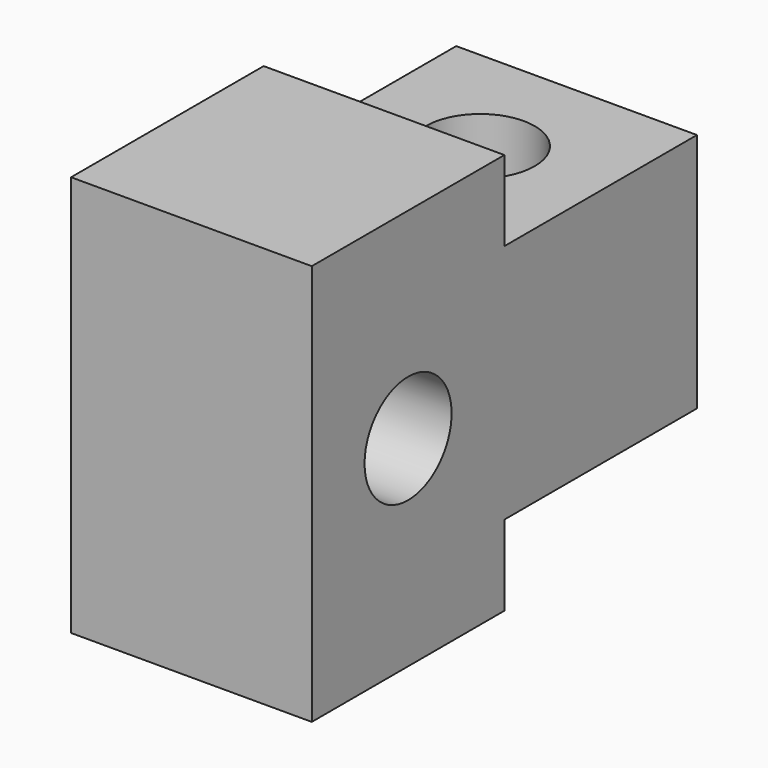
from build123d import *

# Parameters (mm, degrees)
F0_W     = 9.525
F0_H     = 19.05
F0_R     = 2.15265
F1_DEPTH = 15.875
F2_W     = 9.525
F2_H     = 3.175
F3_DEPTH = 9.525
F4_R     = 2.15265
F5_DEPTH = 9.525


with BuildPart() as f1:
    # F0 (on Top) → F1 (new body)
    with BuildSketch(Plane.XY):
        with Locations((4.7625, 9.525)):
            Rectangle(F0_W, F0_H)
        with Locations((4.7625, 14.2875)):
            Circle(F0_R, mode=Mode.SUBTRACT)
    extrude(amount=F1_DEPTH)

    # F2 (on face) → F3 (cut)
    with BuildSketch(Plane(origin=(0, 19.05, 0), x_dir=(-1, 0, 0), z_dir=(0, 1, 0))):
        with Locations((-4.7625, 1.5875)):
            Rectangle(F2_W, F2_H)
        with Locations((-4.7625, 14.2875)):
            Rectangle(F2_W, F2_H)
    extrude(amount=-F3_DEPTH, mode=Mode.SUBTRACT)

    # F4 (on face) → F5 (cut, through all)
    with BuildSketch(Plane(origin=(0, 0, 0), x_dir=(0, -1, 0), z_dir=(-1, 0, 0))):
        with Locations((-4.7625, 7.9375)):
            Circle(F4_R)
    extrude(amount=-F5_DEPTH, mode=Mode.SUBTRACT)


solid = f1.part
